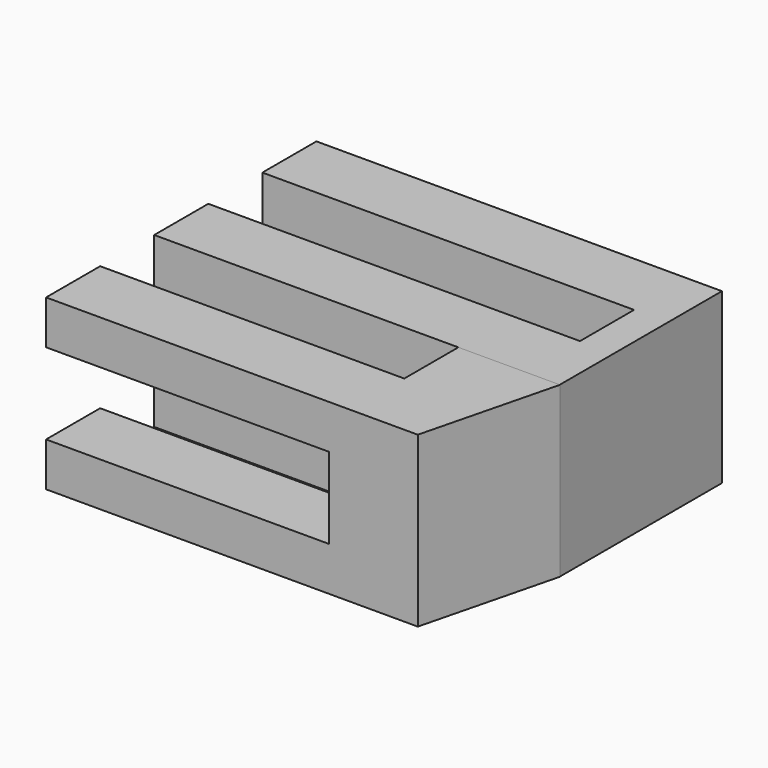
from build123d import *

# Parameters (mm, degrees)
PAD_DEPTH        = 5
SKETCH002_W      = 8.369602
SKETCH002_H      = 2.4
EXTRUDE001_DEPTH = 3
EXTRUDE_DEPTH    = 5


with BuildPart() as body:
    # Sketch → Pad (new body)
    with BuildSketch(Plane.XY):
        Polygon((-12, 6), (0, 6), (0, 0), (-12, 0), (-12, 2), (-1, 2), (-1, 4), (-12, 4), align=None)
    extrude(amount=PAD_DEPTH)


with BuildPart() as extrude001:
    # Sketch002 (on DatumPlane) → Extrude001 (new body)
    with BuildSketch(Plane.XZ.offset(4)):
        with Locations((-7.815199, 2.5)):
            Rectangle(SKETCH002_W, SKETCH002_H)
    extrude(amount=-EXTRUDE001_DEPTH)


with BuildPart() as cut:
    # Sketch001 → Extrude (new body)
    with BuildSketch(Plane(origin=(-1, 0, 0), x_dir=(1, 0, 0), z_dir=(0, 0, 1))):
        Polygon((-2, 0), (-2, -2), (-11, -2), (-11, -4), (0, -4), (1.006215, 0.002421), align=None)
    extrude(amount=EXTRUDE_DEPTH)

    # Cut: cut Extrude001
    add(extrude001.part, mode=Mode.SUBTRACT)


solid = Compound([body.part, cut.part])
